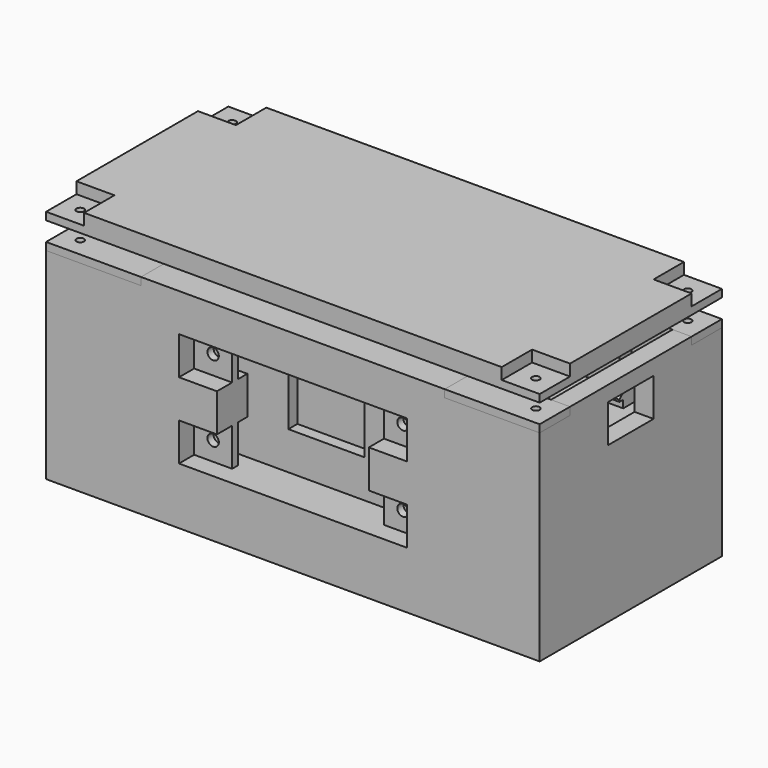
from build123d import *

# Parameters (mm, degrees)
CYLINDER002_R           = 1
CYLINDER002_DEPTH       = 20
BOX007_W                = 10
BOX007_H                = 10
BOX007_DEPTH            = 10
ARRAY005_X_COUNT        = 2
ARRAY005_X_PITCH        = 120
ARRAY005_Y_COUNT        = 2
ARRAY005_Y_PITCH        = 50
BOX002_W                = 130
BOX002_H                = 60
BOX002_DEPTH            = 5
BOX014_W                = 7
BOX014_H                = 15
BOX014_DEPTH            = 10
CYLINDER001_R           = 1
CYLINDER001_DEPTH       = 3
ARRAY004_X_COUNT        = 2
ARRAY004_X_PITCH        = 120
ARRAY004_Y_COUNT        = 2
ARRAY004_Y_PITCH        = 50
CYLINDER_R              = 1.5
CYLINDER_DEPTH          = 30
CYLINDER_ROLL_ANGLE     = 90
ARRAY003_X_COUNT        = 2
ARRAY003_X_PITCH        = 50
ARRAY003_Y_COUNT        = 2
ARRAY003_Y_PITCH        = 20
BOX006_W                = 25
BOX006_H                = 10
BOX006_DEPTH            = 2
ARRAY002_X_COUNT        = 2
ARRAY002_X_PITCH        = 105
ARRAY002_Y_COUNT        = 2
ARRAY002_Y_PITCH        = 50
BOX005_W                = 10
BOX005_H                = 10
BOX005_DEPTH            = 10
ARRAY001_X_COUNT        = 2
ARRAY001_X_PITCH        = 50
BOX004_W                = 10
BOX004_H                = 2
BOX004_DEPTH            = 10
ARRAY_X_COUNT           = 2
ARRAY_X_PITCH           = 50
ARRAY_Y_COUNT           = 2
ARRAY_Y_PITCH           = 20
BOX003_W                = 60
BOX003_H                = 10
BOX003_DEPTH            = 30
BOX001_W                = 120
BOX001_H                = 40
BOX001_DEPTH            = 50
BOX_W                   = 130
BOX_H                   = 60
BOX_DEPTH               = 55
PAD_DEPTH               = 10
BOX015_W                = 20
BOX015_H                = 3
BOX015_DEPTH            = 15
CYLINDER003_R           = 1
CYLINDER003_DEPTH       = 10
ARRAY009_X_COUNT        = 2
ARRAY009_X_PITCH        = 120
ARRAY009_Y_COUNT        = 2
ARRAY009_Y_PITCH        = 50
BOX011_W                = 25
BOX011_H                = 10
BOX011_DEPTH            = 2
ARRAY008_X_COUNT        = 2
ARRAY008_X_PITCH        = 105
ARRAY008_Y_COUNT        = 2
ARRAY008_Y_PITCH        = 50
BOX010_W                = 10
BOX010_H                = 15
BOX010_DEPTH            = 2
ARRAY007_X_COUNT        = 2
ARRAY007_X_PITCH        = 90
ARRAY007_Y_COUNT        = 2
ARRAY007_Y_PITCH        = 45
BOX009_W                = 10
BOX009_H                = 4
BOX009_DEPTH            = 15
ARRAY006_X_COUNT        = 2
ARRAY006_X_PITCH        = 90
ARRAY006_Y_COUNT        = 2
ARRAY006_Y_PITCH        = 34
BOX008_W                = 109
BOX008_H                = 38
BOX008_DEPTH            = 5
PAD001_DEPTH            = 20
SKETCH002_W             = 5
SKETCH002_H             = 11
PAD002_DEPTH            = 5
BOX013_W                = 17.5
BOX013_H                = 5
BOX013_DEPTH            = 2
BOX012_W                = 5
BOX012_H                = 5
BOX012_DEPTH            = 5
ARRAY010_X_COUNT        = 2
ARRAY010_X_PITCH        = 20
CHAMFER_SIZE            = 2.5
CHAMFER_PLACEMENT_ANGLE = 90


with BuildPart() as cilindro002:
    # Cylinder002 → Cylinder002 (new body)
    with BuildSketch(Plane(origin=(5, 5, -5), x_dir=(1, 0, 0), z_dir=(0, 0, 1))):
        Circle(CYLINDER002_R)
    extrude(amount=CYLINDER002_DEPTH)


with BuildPart() as huecostapa:
    # Box007 → Box007 (new body)
    with BuildSketch(Plane.XY):
        with Locations((5, 5)):
            Rectangle(BOX007_W, BOX007_H)
    extrude(amount=BOX007_DEPTH)

    # Fusion: union Cilindro002
    add(cilindro002.part)

    # Array005 X: HuecosTapa ×2


with BuildPart() as huecostapa_1:
    add(huecostapa.part)
    with Locations(*[(i * ARRAY005_X_PITCH, 0, 0) for i in range(1, ARRAY005_X_COUNT)]):
        add(huecostapa.part)

    # Array005 Y: HuecosTapa ×2


with BuildPart() as huecostapa_2:
    add(huecostapa_1.part)
    with Locations(*[(0, i * ARRAY005_Y_PITCH, 0) for i in range(1, ARRAY005_Y_COUNT)]):
        add(huecostapa_1.part)


with BuildPart() as huecostapa_3:
    # Array005 placement: moved
    add(huecostapa_2.part.moved(Location((0, 0, 62))))


with BuildPart() as tapa:
    # Box002 → Box002 (new body)
    with BuildSketch(Plane.XY.offset(60)):
        with Locations((65, 30)):
            Rectangle(BOX002_W, BOX002_H)
    extrude(amount=BOX002_DEPTH)

    # Cut007: cut HuecosTapa
    add(huecostapa_3.part, mode=Mode.SUBTRACT)


with BuildPart() as huecousb:
    # Box014 → Box014 (new body)
    with BuildSketch(Plane(origin=(124, 22.5, 41), x_dir=(1, 0, 0), z_dir=(0, 0, 1))):
        with Locations((3.5, 7.5)):
            Rectangle(BOX014_W, BOX014_H)
    extrude(amount=BOX014_DEPTH)


with BuildPart() as array004:
    # Cylinder001 → Cylinder001 (new body)
    with BuildSketch(Plane.XY):
        Circle(CYLINDER001_R)
    extrude(amount=CYLINDER001_DEPTH)

    # Array004 X: Array004 ×2


with BuildPart() as array004_1:
    add(array004.part)
    with Locations(*[(i * ARRAY004_X_PITCH, 0, 0) for i in range(1, ARRAY004_X_COUNT)]):
        add(array004.part)

    # Array004 Y: Array004 ×2


with BuildPart() as array004_2:
    add(array004_1.part)
    with Locations(*[(0, i * ARRAY004_Y_PITCH, 0) for i in range(1, ARRAY004_Y_COUNT)]):
        add(array004_1.part)


with BuildPart() as array004_3:
    # Array004 placement: moved
    add(array004_2.part.moved(Location((5, 5, 51))))


with BuildPart() as array003:
    # Cylinder → Cylinder (new body)
    with BuildSketch(Plane.XY):
        Circle(CYLINDER_R)
    extrude(amount=CYLINDER_DEPTH)


with BuildPart() as array003_1:
    # Cylinder roll: moved
    add(array003.part.rotate(Axis((0, 0, 0), (1, 0, 0)), CYLINDER_ROLL_ANGLE))


with BuildPart() as array003_2:
    # Cylinder placement: moved
    add(array003_1.part)

    # Array003 X: Array003 ×2


with BuildPart() as array003_3:
    add(array003_2.part)
    with Locations(*[(i * ARRAY003_X_PITCH, 0, 0) for i in range(1, ARRAY003_X_COUNT)]):
        add(array003_2.part)

    # Array003 Y: Array003 ×2


with BuildPart() as array003_4:
    add(array003_3.part)
    with Locations(*[(0, 0, i * ARRAY003_Y_PITCH) for i in range(1, ARRAY003_Y_COUNT)]):
        add(array003_3.part)


with BuildPart() as array003_5:
    # Array003 placement: moved
    add(array003_4.part.moved(Location((40, 15, 20))))


with BuildPart() as array002:
    # Box006 → Box006 (new body)
    with BuildSketch(Plane.XY):
        with Locations((12.5, 5)):
            Rectangle(BOX006_W, BOX006_H)
    extrude(amount=BOX006_DEPTH)

    # Array002 X: Array002 ×2


with BuildPart() as array002_1:
    add(array002.part)
    with Locations(*[(i * ARRAY002_X_PITCH, 0, 0) for i in range(1, ARRAY002_X_COUNT)]):
        add(array002.part)

    # Array002 Y: Array002 ×2


with BuildPart() as array002_2:
    add(array002_1.part)
    with Locations(*[(0, i * ARRAY002_Y_PITCH, 0) for i in range(1, ARRAY002_Y_COUNT)]):
        add(array002_1.part)


with BuildPart() as array002_3:
    # Array002 placement: moved
    add(array002_2.part.moved(Location((0, 0, 53))))


with BuildPart() as array001:
    # Box005 → Box005 (new body)
    with BuildSketch(Plane(origin=(35, 0, 25), x_dir=(1, 0, 0), z_dir=(0, 0, 1))):
        with Locations((5, 5)):
            Rectangle(BOX005_W, BOX005_H)
    extrude(amount=BOX005_DEPTH)

    # Array001 X: Array001 ×2


with BuildPart() as array001_1:
    add(array001.part)
    with Locations(*[(i * ARRAY001_X_PITCH, 0, 0) for i in range(1, ARRAY001_X_COUNT)]):
        add(array001.part)


with BuildPart() as array:
    # Box004 → Box004 (new body)
    with BuildSketch(Plane.XY):
        with Locations((5, 1)):
            Rectangle(BOX004_W, BOX004_H)
    extrude(amount=BOX004_DEPTH)

    # Array X: Array ×2


with BuildPart() as array_1:
    add(array.part)
    with Locations(*[(i * ARRAY_X_PITCH, 0, 0) for i in range(1, ARRAY_X_COUNT)]):
        add(array.part)

    # Array Y: Array ×2


with BuildPart() as array_2:
    add(array_1.part)
    with Locations(*[(0, 0, i * ARRAY_Y_PITCH) for i in range(1, ARRAY_Y_COUNT)]):
        add(array_1.part)


with BuildPart() as array_3:
    # Array placement: moved
    add(array_2.part.moved(Location((0, 5, 0))))


with BuildPart() as cut002:
    # Box003 → Box003 (new body)
    with BuildSketch(Plane.XY):
        with Locations((30, 5)):
            Rectangle(BOX003_W, BOX003_H)
    extrude(amount=BOX003_DEPTH)

    # Cut001: cut Array
    add(array_3.part, mode=Mode.SUBTRACT)


with BuildPart() as cut002_1:
    # Cut001 placement: moved
    add(cut002.part.moved(Location((35, 0, 15))))

    # Cut002: cut Array001
    add(array001_1.part, mode=Mode.SUBTRACT)


with BuildPart() as interior:
    # Box001 → Box001 (new body)
    with BuildSketch(Plane(origin=(5, 10, 5), x_dir=(1, 0, 0), z_dir=(0, 0, 1))):
        with Locations((60, 20)):
            Rectangle(BOX001_W, BOX001_H)
    extrude(amount=BOX001_DEPTH)


with BuildPart() as obj1:
    # Box → Box (new body)
    with BuildSketch(Plane.XY):
        with Locations((65, 30)):
            Rectangle(BOX_W, BOX_H)
    extrude(amount=BOX_DEPTH)

    # Cut: cut Interior
    add(interior.part, mode=Mode.SUBTRACT)

    # Cut003: cut Cut002
    add(cut002_1.part, mode=Mode.SUBTRACT)

    # Cut004: cut Array002
    add(array002_3.part, mode=Mode.SUBTRACT)

    # Sketch → Pad (new body)
    with BuildSketch(Plane.XY.offset(5)):
        Polygon((15, 35), (20, 35), (20, 45), (120, 45), (120, 15), (20, 15), (20, 25), (15, 25), (15, 10), (125, 10), (125, 50), (15, 50), align=None)
    extrude(amount=PAD_DEPTH)

    # Cut005: cut Array003
    add(array003_5.part, mode=Mode.SUBTRACT)

    # Cut006: cut Array004
    add(array004_3.part, mode=Mode.SUBTRACT)

    # Cut010: cut HuecoUSB
    add(huecousb.part, mode=Mode.SUBTRACT)


with BuildPart() as hueco_tornillo_conector:
    # Box015 → Box015 (new body)
    with BuildSketch(Plane(origin=(55, 11, 25), x_dir=(1, 0, 0), z_dir=(0, 0, 1))):
        with Locations((10, 1.5)):
            Rectangle(BOX015_W, BOX015_H)
    extrude(amount=BOX015_DEPTH)


with BuildPart() as array009:
    # Cylinder003 → Cylinder003 (new body)
    with BuildSketch(Plane.XY):
        Circle(CYLINDER003_R)
    extrude(amount=CYLINDER003_DEPTH)

    # Array009 X: Array009 ×2


with BuildPart() as array009_1:
    add(array009.part)
    with Locations(*[(i * ARRAY009_X_PITCH, 0, 0) for i in range(1, ARRAY009_X_COUNT)]):
        add(array009.part)

    # Array009 Y: Array009 ×2


with BuildPart() as array009_2:
    add(array009_1.part)
    with Locations(*[(0, i * ARRAY009_Y_PITCH, 0) for i in range(1, ARRAY009_Y_COUNT)]):
        add(array009_1.part)


with BuildPart() as array009_3:
    # Array009 placement: moved
    add(array009_2.part.moved(Location((-10, -6, 13))))


with BuildPart() as array008:
    # Box011 → Box011 (new body)
    with BuildSketch(Plane(origin=(-15, -11, 18), x_dir=(1, 0, 0), z_dir=(0, 0, 1))):
        with Locations((12.5, 5)):
            Rectangle(BOX011_W, BOX011_H)
    extrude(amount=BOX011_DEPTH)

    # Array008 X: Array008 ×2


with BuildPart() as array008_1:
    add(array008.part)
    with Locations(*[(i * ARRAY008_X_PITCH, 0, 0) for i in range(1, ARRAY008_X_COUNT)]):
        add(array008.part)

    # Array008 Y: Array008 ×2


with BuildPart() as array008_2:
    add(array008_1.part)
    with Locations(*[(0, i * ARRAY008_Y_PITCH, 0) for i in range(1, ARRAY008_Y_COUNT)]):
        add(array008_1.part)


with BuildPart() as array007:
    # Box010 → Box010 (new body)
    with BuildSketch(Plane(origin=(0, -11, 18), x_dir=(1, 0, 0), z_dir=(0, 0, 1))):
        with Locations((5, 7.5)):
            Rectangle(BOX010_W, BOX010_H)
    extrude(amount=BOX010_DEPTH)

    # Array007 X: Array007 ×2


with BuildPart() as array007_1:
    add(array007.part)
    with Locations(*[(i * ARRAY007_X_PITCH, 0, 0) for i in range(1, ARRAY007_X_COUNT)]):
        add(array007.part)

    # Array007 Y: Array007 ×2


with BuildPart() as array007_2:
    add(array007_1.part)
    with Locations(*[(0, i * ARRAY007_Y_PITCH, 0) for i in range(1, ARRAY007_Y_COUNT)]):
        add(array007_1.part)


with BuildPart() as array006:
    # Box009 → Box009 (new body)
    with BuildSketch(Plane.XY.offset(5)):
        with Locations((5, 2)):
            Rectangle(BOX009_W, BOX009_H)
    extrude(amount=BOX009_DEPTH)

    # Array006 X: Array006 ×2


with BuildPart() as array006_1:
    add(array006.part)
    with Locations(*[(i * ARRAY006_X_PITCH, 0, 0) for i in range(1, ARRAY006_X_COUNT)]):
        add(array006.part)

    # Array006 Y: Array006 ×2


with BuildPart() as array006_2:
    add(array006_1.part)
    with Locations(*[(0, i * ARRAY006_Y_PITCH, 0) for i in range(1, ARRAY006_Y_COUNT)]):
        add(array006_1.part)


with BuildPart() as cut008:
    # Box008 → Box008 (new body)
    with BuildSketch(Plane.XY):
        with Locations((54.5, 19)):
            Rectangle(BOX008_W, BOX008_H)
    extrude(amount=BOX008_DEPTH)

    # Fusion001: union Array006
    add(array006_2.part)

    # Fusion002: union Array007
    add(array007_2.part)

    # Fusion003: union Array008
    add(array008_2.part)

    # Cut008: cut Array009
    add(array009_3.part, mode=Mode.SUBTRACT)


with BuildPart() as cut008_1:
    # Cut008 placement: moved
    add(cut008.part.moved(Location((0, 0, 20))))


with BuildPart() as cut011:
    # Sketch001 → Pad001 (new body)
    with BuildSketch(Plane.XY):
        Polygon((0, 24), (5, 24), (5, 34), (105, 34), (105, 4), (5, 4), (5, 14), (0, 14), (0, 0), (109, 0), (109, 38), (0, 38), align=None)
    extrude(amount=PAD001_DEPTH)

    # Fusion004: union Cut008
    add(cut008_1.part)


with BuildPart() as cut011_1:
    # Fusion004 placement: moved
    add(cut011.part.moved(Location((15, 11, 15))))

    # Sketch002 → Pad002 (new body)
    with BuildSketch(Plane(origin=(15, 11, 40), x_dir=(1, 0, 0), z_dir=(0, 0, 1))):
        with Locations((84.75, 19)):
            Rectangle(SKETCH002_W, SKETCH002_H)
    extrude(amount=PAD002_DEPTH)

    # Cut011: cut Hueco_Tornillo_Conector
    add(hueco_tornillo_conector.part, mode=Mode.SUBTRACT)


with BuildPart() as clavijas_hueco:
    # Box013 → Box013 (new body)
    with BuildSketch(Plane(origin=(3.75, 0, 0), x_dir=(1, 0, 0), z_dir=(0, 0, 1))):
        with Locations((8.75, 2.5)):
            Rectangle(BOX013_W, BOX013_H)
    extrude(amount=BOX013_DEPTH)


with BuildPart() as soporte:
    # Box012 → Box012 (new body)
    with BuildSketch(Plane.XY):
        with Locations((2.5, 2.5)):
            Rectangle(BOX012_W, BOX012_H)
    extrude(amount=BOX012_DEPTH)

    # Array010 X: Soporte ×2


with BuildPart() as soporte_1:
    add(soporte.part)
    with Locations(*[(i * ARRAY010_X_PITCH, 0, 0) for i in range(1, ARRAY010_X_COUNT)]):
        add(soporte.part)

    # Cut009: cut Clavijas_hueco
    add(clavijas_hueco.part, mode=Mode.SUBTRACT)

    # Chamfer
    chamfer_edges = [soporte_1.edges().sort_by_distance(p)[0] for p in [
        (5, 2.5, 5),
        (20, 2.5, 5),
    ]]
    chamfer(chamfer_edges, length=CHAMFER_SIZE)


with BuildPart() as soporte_2:
    # Chamfer placement: moved
    add(soporte_1.part.moved(Location((121, 17.5, 40))).rotate(Axis((121, 17.5, 40), (0, 0, 1)), CHAMFER_PLACEMENT_ANGLE))

    # Fusion005: union Cut011
    add(cut011_1.part)


solid = Compound([tapa.part, obj1.part, soporte_2.part])
